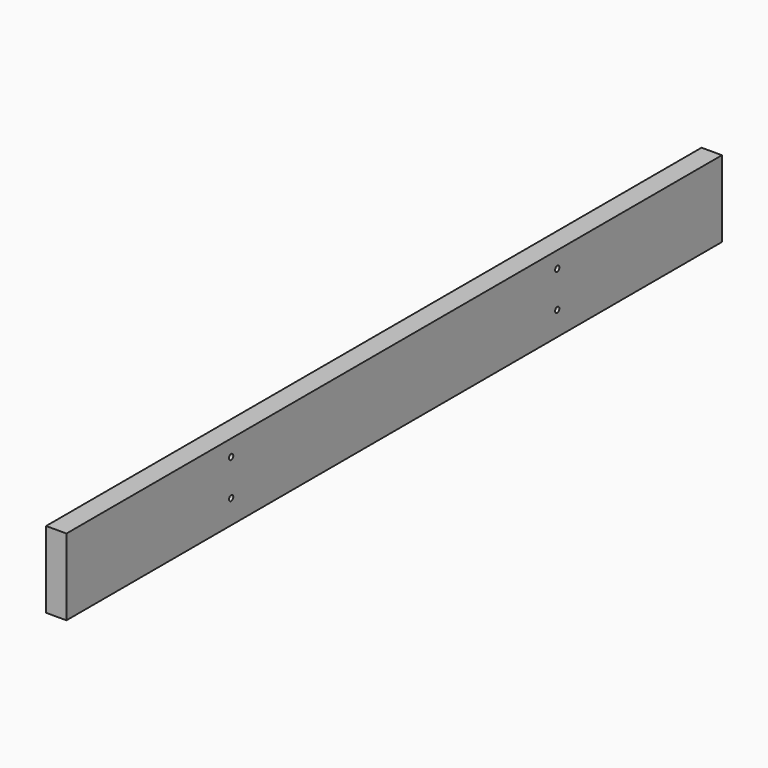
from build123d import *

# Parameters (mm, degrees)
F0_W     = 40
F0_H     = 150
F1_DEPTH = 804
F3_D     = 10.5


with BuildPart() as f1:
    # F0 (on Front) → F1 (new body, symmetric)
    with BuildSketch(Plane.XZ):
        Rectangle(F0_W, F0_H)
    extrude(amount=F1_DEPTH, both=True)

    # F3 (through all)
    with Locations(Plane.YZ.offset(20)):
        with Locations((-400, 43), (-400, -28), (400, -28), (400, 43)):
            Hole(F3_D / 2)


solid = f1.part
